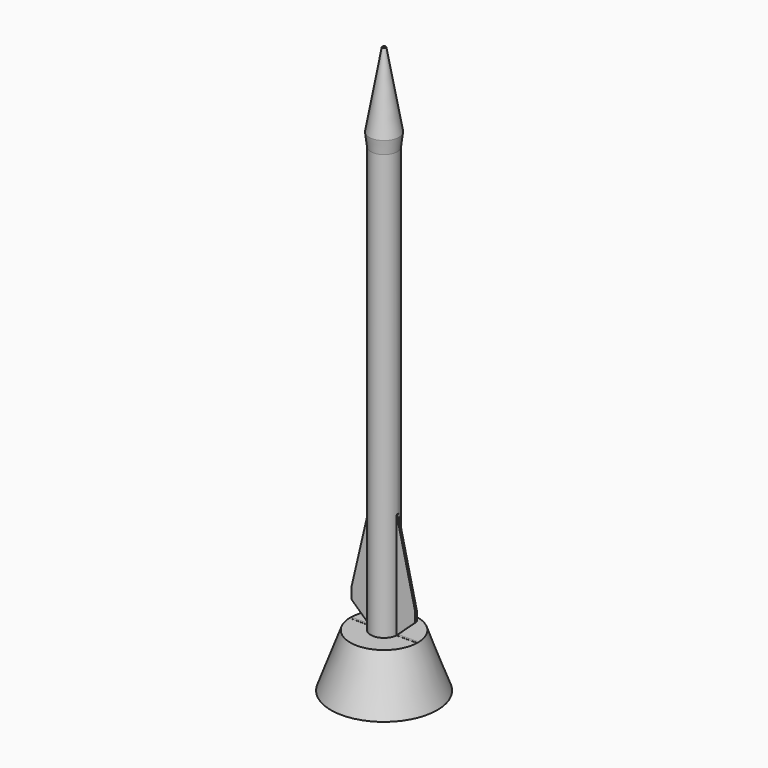
from build123d import *

# Parameters (mm, degrees)
F0_R     = 12.7
F1_DEPTH = 12.7
F1_TAPER = 20
F2_R     = 3.175
F3_DEPTH = 101.6
F4_R     = 3.175
F5_DEPTH = 3.175
F5_TAPER = -7
F6_R     = 3.5648409809
F7_DEPTH = 17.78
F7_TAPER = 10
F8_W     = 15.24
F8_H     = 0.508
F9_DEPTH = 38.1


with BuildPart() as f1:
    # F0 (on Top) → F1 (new body)
    with BuildSketch(Plane.XY):
        Circle(F0_R)
    extrude(amount=F1_DEPTH, taper=F1_TAPER)

    # F2 (on face) → F3 (join)
    with BuildSketch(Plane.XY.offset(12.7)):
        Circle(F2_R)
    extrude(amount=F3_DEPTH)

    # F4 (on face) → F5 (join)
    with BuildSketch(Plane.XY.offset(114.3)):
        Circle(F4_R)
    extrude(amount=F5_DEPTH, taper=F5_TAPER)

    # F6 (on face) → F7 (join)
    with BuildSketch(Plane.XY.offset(117.475)):
        Circle(F6_R)
    extrude(amount=F7_DEPTH, taper=F7_TAPER)

    # F8 (on Top) → F9 (join)
    with BuildSketch(Plane.XY):
        Rectangle(F8_W, F8_H)
    extrude(amount=F9_DEPTH)

    # F10 (on Front) → F12 (revolve, cut)
    with BuildSketch(Plane.XZ):
        Polygon((-8.0804247409, 17.2624252737), (-3.1776875257, 38.326036185), (-8.6857005954, 39.8392230272), (-11.7726093158, 12.7228545025), (-3.1776875257, 12.7228545025), align=None)
    revolve(axis=Axis((0, 0, -4.9230908044), (0, 0, -1)), mode=Mode.SUBTRACT)


solid = f1.part
